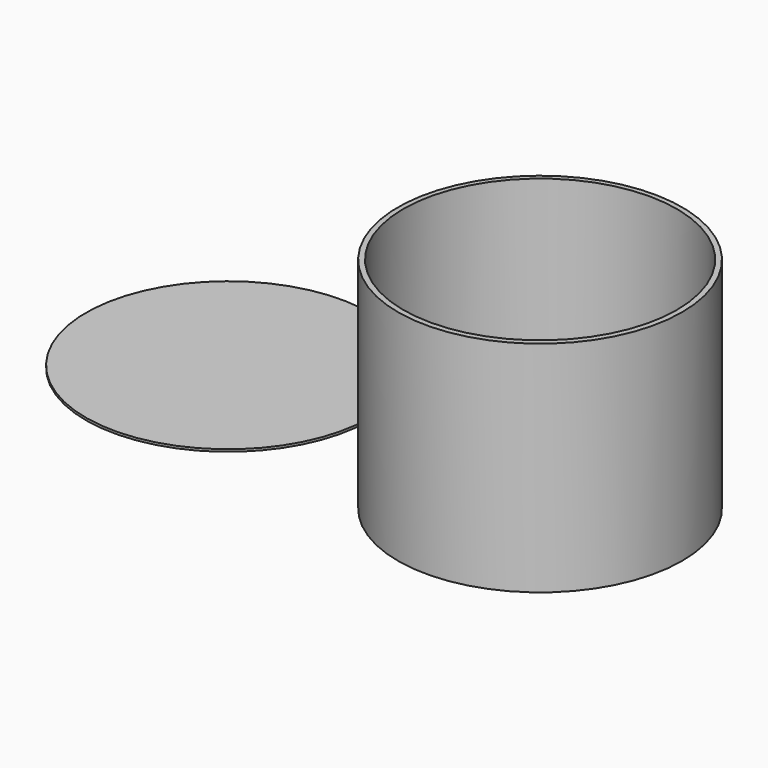
from build123d import *

# Parameters (mm, degrees)
F0_R     = 197.8025
F1_DEPTH = 3.175
F3_R     = 197.8025
F3_R_2   = 190.394768
F4_DEPTH = 304.8


with BuildPart() as f1:
    # F0 (on Top) → F1 (new body)
    with BuildSketch(Plane.XY):
        Circle(F0_R)
    extrude(amount=F1_DEPTH)


with BuildPart() as f4:
    # F3 (on face) → F4 (new body)
    with BuildSketch(Plane.XY):
        with Locations((471.630305, -46.547394)):
            Circle(F3_R)
        with Locations((471.249461, -46.043791)):
            Circle(F3_R_2, mode=Mode.SUBTRACT)
    extrude(amount=F4_DEPTH)


solid = Compound([f1.part, f4.part])
